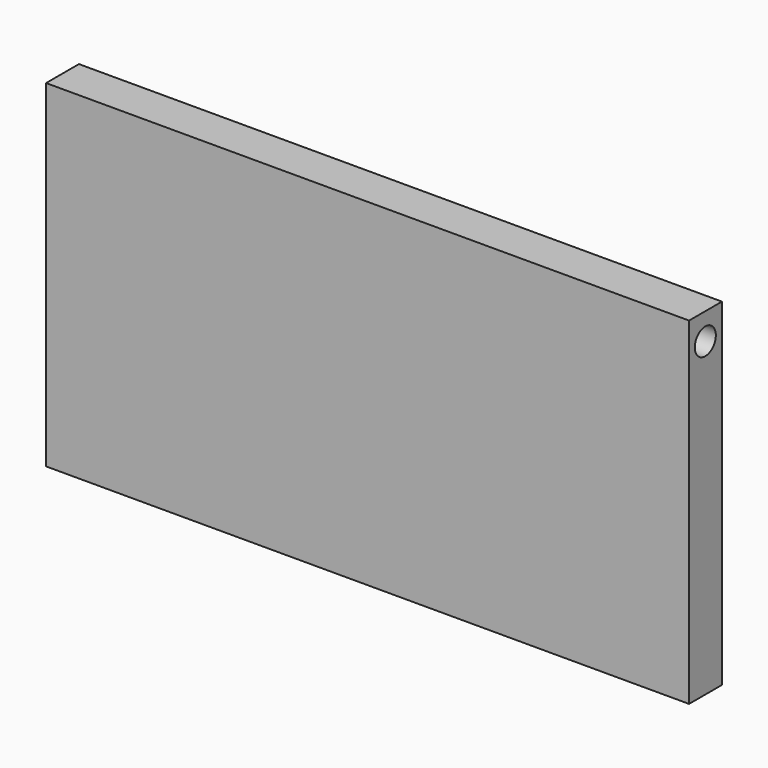
from build123d import *

# Parameters (mm, degrees)
F0_W     = 99.4157642126
F0_H     = 52.1809085621
F1_DEPTH = 6.35
F4_D     = 4.064
F4_DEPTH = 12.7
F4_TIP   = 1.2209487779
F5_D     = 4.064
F5_DEPTH = 12.7
F5_TIP   = 1.2209487779
F6_W     = 13.2178254426
F6_H     = 4.296275205
F7_DEPTH = 25.4


with BuildPart() as f1:
    # F0 (on Front) → F1 (new body)
    with BuildSketch(Plane.XZ):
        with Locations((-0.4946067929, 26.4614112966)):
            Rectangle(F0_W, F0_H)
    extrude(amount=F1_DEPTH)

    # F4
    with Locations(Plane.YZ.offset(49.2132753134)):
        with Locations((-3.2103247941, 48.4527722001)):
            Hole(F4_D / 2, depth=F4_DEPTH)
            with Locations((0, 0, -(F4_DEPTH + F4_TIP / 2))):  # 118° drill point
                Cone(0, F4_D / 2, F4_TIP, mode=Mode.SUBTRACT)

    # F5
    with Locations(Plane(origin=(-50.2024888992, 0, 0), x_dir=(0, -1, 0), z_dir=(-1, 0, 0))):
        with Locations((3.1683039851, 48.47811535)):
            Hole(F5_D / 2, depth=F5_DEPTH)
            with Locations((0, 0, -(F5_DEPTH + F5_TIP / 2))):  # 118° drill point
                Cone(0, F5_D / 2, F5_TIP, mode=Mode.SUBTRACT)

    # F6 (on face) → F7 (cut)
    with BuildSketch(Plane(origin=(0, 0, 0.3709570155), x_dir=(1, 0, 0), z_dir=(0, 0, -1))):
        with Locations((0, 3.175)):
            Rectangle(F6_W, F6_H)
    extrude(amount=-F7_DEPTH, mode=Mode.SUBTRACT)


solid = f1.part
